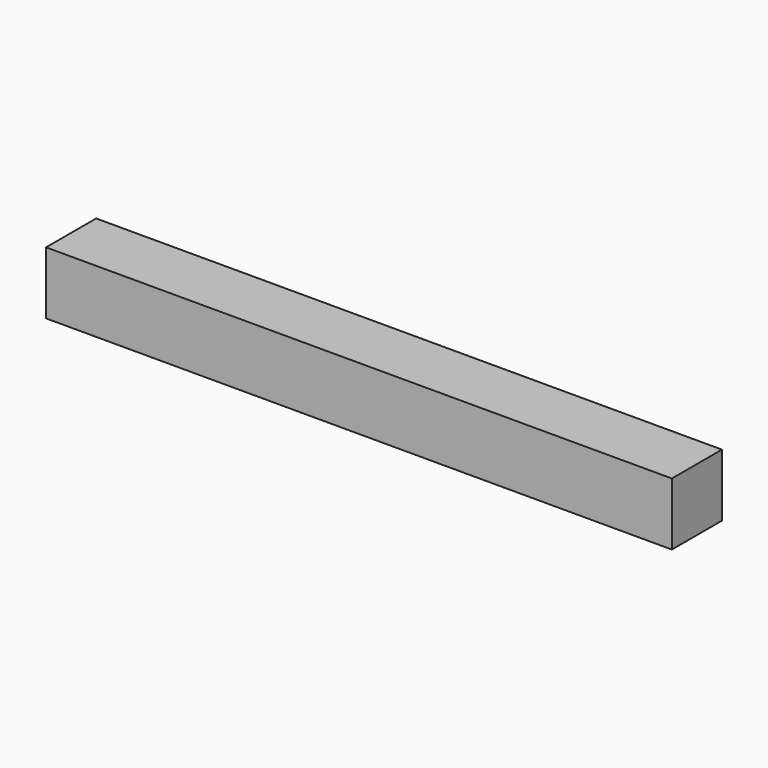
from build123d import *

# Parameters (mm, degrees)
SKETCH_W  = 30
SKETCH_H  = 30
PAD_DEPTH = 300


with BuildPart() as part:
    # Sketch → Pad (new body)
    with BuildSketch(Plane.YZ):
        with Locations((15, 15)):
            Rectangle(SKETCH_W, SKETCH_H)
    extrude(amount=PAD_DEPTH)


solid = part.part
